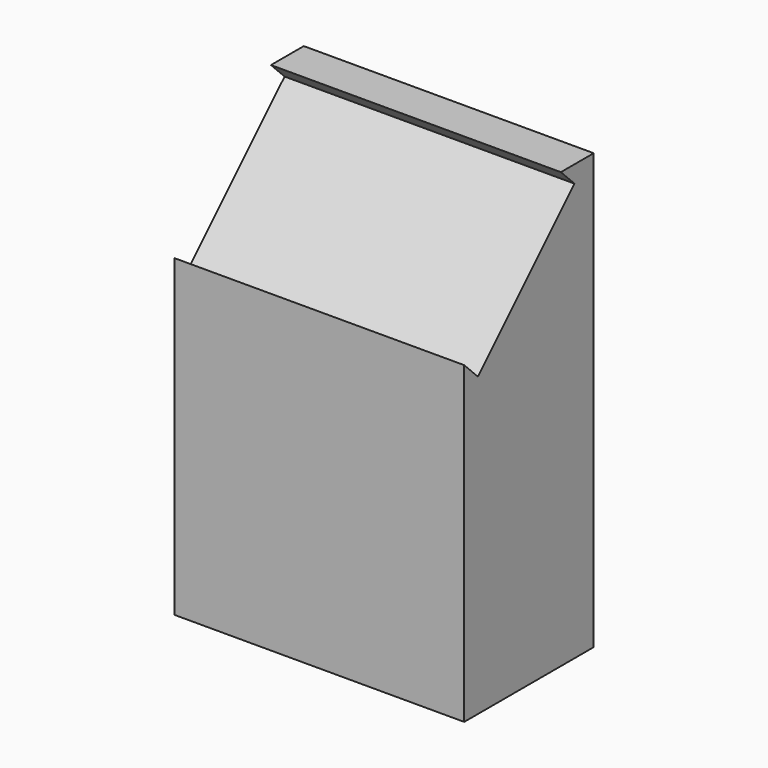
from build123d import *

# Parameters (mm, degrees)
F0_W     = 609.6
F0_H     = 914.4
F1_DEPTH = 340.36
F2_SIZE  = 254
F3_DEPTH = 50.8


with BuildPart() as f1:
    # F0 (on Front) → F1 (new body)
    with BuildSketch(Plane.XZ):
        Rectangle(F0_W, F0_H)
    extrude(amount=F1_DEPTH)

    # F2
    f2_edges = [f1.edges().sort_by_distance(p)[0] for p in [
        (0, -340.36, 457.2),
    ]]
    chamfer(f2_edges, length=F2_SIZE)

    # F3 (cut): a face of the model
    f3_faces = [f1.faces().sort_by_distance(p)[0] for p in [
        (0, -213.36, 330.2),
    ]]
    extrude(f3_faces, amount=-F3_DEPTH, mode=Mode.SUBTRACT)


solid = f1.part
